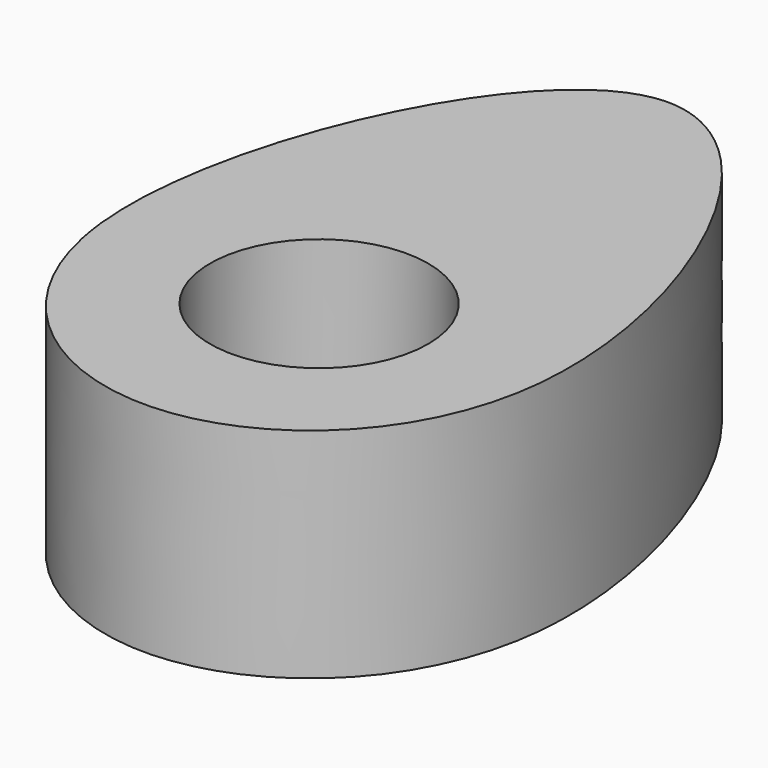
from build123d import *

# Parameters (mm, degrees)
F0_R     = 6.35
F1_DEPTH = 12.7


with BuildPart() as f1:
    # F0 (on Top) → F1 (new body)
    with BuildSketch(Plane.XY):
        with BuildLine():
            add(Edge.make_bspline(
                [(-12.7, 0), (-13.7892041837, 10.0735058043), (-0.0005973043, 40.7265106605), (19.274469553, -2.1158880005), (-0.0035020711, -17.3888488481), (-11.8338324955, -8.0107508902), (-12.7, 0)],
                knots=[0, 0, 0, 0, 0.278509526, 0.557019052, 0.7785209562, 1, 1, 1, 1], degree=3))
        make_face()
        Circle(F0_R, mode=Mode.SUBTRACT)
    extrude(amount=F1_DEPTH)


solid = f1.part
